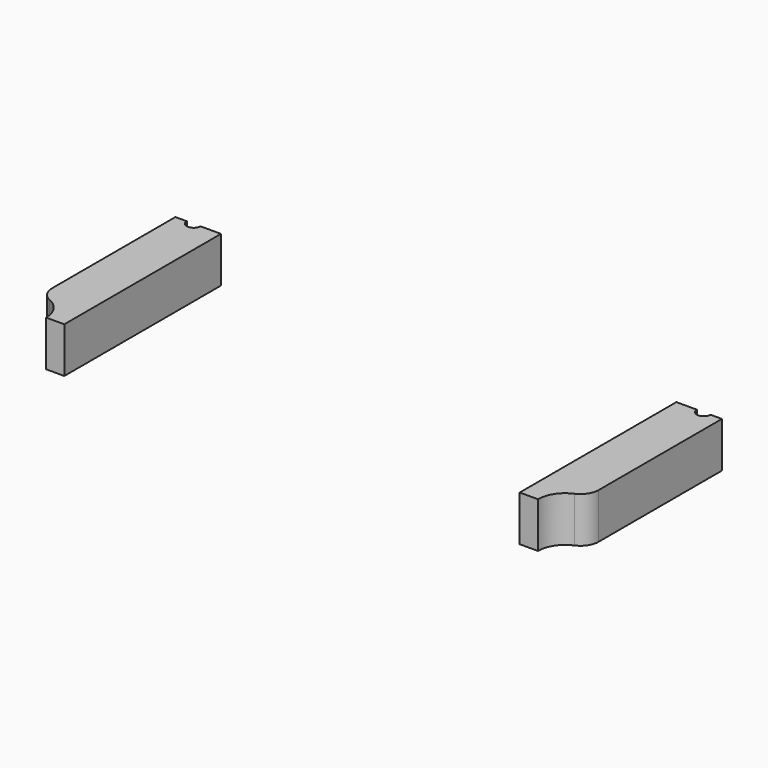
from build123d import *

# Parameters (mm, degrees)
CYLINDER755_R               = 6
CYLINDER755_DEPTH           = 10
CYLINDER749_R               = 6
CYLINDER749_DEPTH           = 10
CYLINDER748_R               = 1.5
CYLINDER748_DEPTH           = 20
CYLINDER748_PLACEMENT_ANGLE = 45
CYLINDER751_R               = 1.5
CYLINDER751_DEPTH           = 20
CYLINDER744_R               = 1.5
CYLINDER744_DEPTH           = 20
CYLINDER744_PLACEMENT_ANGLE = 135
CYLINDER758_R               = 1.5
CYLINDER758_DEPTH           = 20
CYLINDER746_R               = 1.5
CYLINDER746_DEPTH           = 20
CYLINDER746_PLACEMENT_ANGLE = 225
CYLINDER754_R               = 1.5
CYLINDER754_DEPTH           = 20
CYLINDER757_R               = 1.5
CYLINDER757_DEPTH           = 20
CYLINDER757_PLACEMENT_ANGLE = 45
CYLINDER756_R               = 1.5
CYLINDER756_DEPTH           = 20
BOX330_W                    = 10
BOX330_H                    = 43
BOX330_DEPTH                = 10
BOX331_W                    = 10
BOX331_H                    = 43
BOX331_DEPTH                = 10
FILLET008_R                 = 4


with BuildPart() as obj1:
    # Cylinder755 → Cylinder755 (new body)
    with BuildSketch(Plane(origin=(-60, -43, 10), x_dir=(1, 0, 0), z_dir=(0, 0, 1))):
        Circle(CYLINDER755_R)
    extrude(amount=CYLINDER755_DEPTH)


with BuildPart() as compound714:
    # Cylinder749 → Cylinder749 (new body)
    with BuildSketch(Plane(origin=(60, -43, 10), x_dir=(1, 0, 0), z_dir=(0, 0, 1))):
        Circle(CYLINDER749_R)
    extrude(amount=CYLINDER749_DEPTH)

    # Compound714: union obj1
    add(obj1.part)


with BuildPart() as obj2:
    # Cylinder748 → Cylinder748 (new body)
    with BuildSketch(Plane.XY):
        Circle(CYLINDER748_R)
    extrude(amount=CYLINDER748_DEPTH)


with BuildPart() as obj2_1:
    # Cylinder748 placement: moved
    add(obj2.part.moved(Location((39.59798, -39.59798, 2))).rotate(Axis((39.59798, -39.59798, 2), (0, 0, 1)), CYLINDER748_PLACEMENT_ANGLE))


with BuildPart() as obj3:
    # Cylinder751 → Cylinder751 (new body)
    with BuildSketch(Plane(origin=(56, 0, 2), x_dir=(0, 1, 0), z_dir=(0, 0, 1))):
        Circle(CYLINDER751_R)
    extrude(amount=CYLINDER751_DEPTH)


with BuildPart() as obj4:
    # Cylinder744 → Cylinder744 (new body)
    with BuildSketch(Plane.XY):
        Circle(CYLINDER744_R)
    extrude(amount=CYLINDER744_DEPTH)


with BuildPart() as obj4_1:
    # Cylinder744 placement: moved
    add(obj4.part.moved(Location((39.59798, 39.59798, 2))).rotate(Axis((39.59798, 39.59798, 2), (0, 0, 1)), CYLINDER744_PLACEMENT_ANGLE))


with BuildPart() as obj5:
    # Cylinder758 → Cylinder758 (new body)
    with BuildSketch(Plane(origin=(0, 56, 2), x_dir=(-1, 0, 0), z_dir=(0, 0, 1))):
        Circle(CYLINDER758_R)
    extrude(amount=CYLINDER758_DEPTH)


with BuildPart() as obj6:
    # Cylinder746 → Cylinder746 (new body)
    with BuildSketch(Plane.XY):
        Circle(CYLINDER746_R)
    extrude(amount=CYLINDER746_DEPTH)


with BuildPart() as obj6_1:
    # Cylinder746 placement: moved
    add(obj6.part.moved(Location((-39.59798, 39.59798, 2))).rotate(Axis((-39.59798, 39.59798, 2), (0, 0, 1)), CYLINDER746_PLACEMENT_ANGLE))


with BuildPart() as obj7:
    # Cylinder754 → Cylinder754 (new body)
    with BuildSketch(Plane(origin=(-56, 0, 2), x_dir=(0, -1, 0), z_dir=(0, 0, 1))):
        Circle(CYLINDER754_R)
    extrude(amount=CYLINDER754_DEPTH)


with BuildPart() as obj8:
    # Cylinder757 → Cylinder757 (new body)
    with BuildSketch(Plane.XY):
        Circle(CYLINDER757_R)
    extrude(amount=CYLINDER757_DEPTH)


with BuildPart() as obj8_1:
    # Cylinder757 placement: moved
    add(obj8.part.moved(Location((-39.59798, -39.59798, 2))).rotate(Axis((-39.59798, -39.59798, 2), (0, 0, -1)), CYLINDER757_PLACEMENT_ANGLE))


with BuildPart() as compound713:
    # Cylinder756 → Cylinder756 (new body)
    with BuildSketch(Plane(origin=(0, -56, 2), x_dir=(1, 0, 0), z_dir=(0, 0, 1))):
        Circle(CYLINDER756_R)
    extrude(amount=CYLINDER756_DEPTH)

    # Compound713: union obj2, obj3, obj4, obj5, obj6, obj7, obj8
    add(obj2_1.part)
    add(obj3.part)
    add(obj4_1.part)
    add(obj5.part)
    add(obj6_1.part)
    add(obj7.part)
    add(obj8_1.part)


with BuildPart() as krychle330:
    # Box330 → Box330 (new body)
    with BuildSketch(Plane(origin=(50, -43, 10), x_dir=(1, 0, 0), z_dir=(0, 0, 1))):
        with Locations((5, 21.5)):
            Rectangle(BOX330_W, BOX330_H)
    extrude(amount=BOX330_DEPTH)


with BuildPart() as fillet008:
    # Box331 → Box331 (new body)
    with BuildSketch(Plane(origin=(-60, -43, 10), x_dir=(1, 0, 0), z_dir=(0, 0, 1))):
        with Locations((5, 21.5)):
            Rectangle(BOX331_W, BOX331_H)
    extrude(amount=BOX331_DEPTH)

    # Compound715: union Krychle330
    add(krychle330.part)

    # Cut317: cut Compound713
    add(compound713.part, mode=Mode.SUBTRACT)

    # Cut318: cut Compound714
    add(compound714.part, mode=Mode.SUBTRACT)

    # Fillet008
    fillet008_edges = [fillet008.edges().sort_by_distance(p)[0] for p in [
        (-60, -37, 15),
        (60, -37, 15),
    ]]
    fillet(fillet008_edges, radius=FILLET008_R)


solid = fillet008.part
